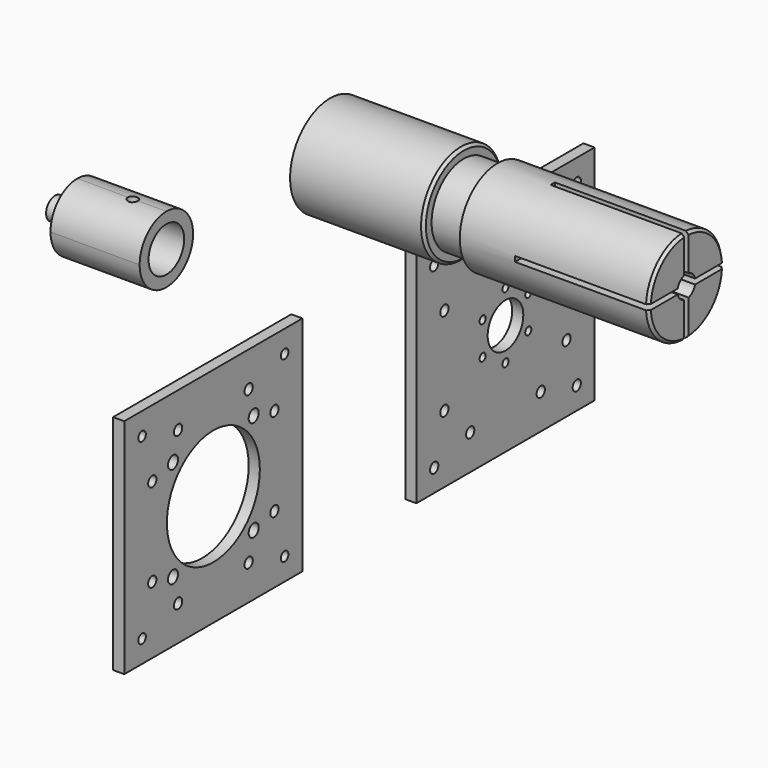
from build123d import *

# Parameters (mm, degrees)
F0_R      = 14.224
F1_DEPTH  = 38.1
F2_R      = 11.43
F3_DEPTH  = 9.652
F4_R      = 13.4493
F4_R_2    = 11.43
F5_DEPTH  = 53.848
F6_R      = 3.175
F7_DEPTH  = 19.05
F9_DEPTH  = 38.1
F10_SIZE  = 0.762
F12_DEPTH = 25.4
F13_R     = 1.4224
F14_DEPTH = 9.525
F15_DEPTH = 25.4
F16_R     = 6.35
F17_DEPTH = 22.225
F18_R     = 3.175
F19_DEPTH = 6.35
F20_W     = 63.5
F20_H     = 63.5
F20_R     = 1.3462
F20_R_2   = 1.4732
F20_R_3   = 1.7907
F20_R_4   = 16.5608
F21_DEPTH = 3.175
F22_W     = 63.5
F22_H     = 63.5
F22_R     = 1.4732
F22_R_2   = 1.0922
F22_R_3   = 6.35
F23_DEPTH = 3.175


with BuildPart() as f1:
    # F0 (on Right) → F1 (new body)
    with BuildSketch(Plane.YZ):
        Circle(F0_R)
    extrude(amount=F1_DEPTH)

    # F2 (on face) → F3 (join)
    with BuildSketch(Plane.YZ.offset(38.1)):
        Circle(F2_R)
    extrude(amount=F3_DEPTH)

    # F4 (on face) → F5 (join)
    with BuildSketch(Plane.YZ.offset(47.752)):
        Circle(F4_R)
        Circle(F4_R_2, mode=Mode.SUBTRACT)
        Circle(F4_R_2)
    extrude(amount=F5_DEPTH)

    # F6 (on face) → F7 (cut)
    with BuildSketch(Plane.YZ.offset(101.6)):
        Circle(F6_R)
    extrude(amount=-F7_DEPTH, mode=Mode.SUBTRACT)

    # F8 (on face) → F9 (cut)
    with BuildSketch(Plane.YZ.offset(101.6)):
        with BuildLine():
            ThreePointArc((-0.7705037715, 3.080089112), (0, 3.175), (0.7705037715, 3.080089112))
            Line((0.7705037715, 3.080089112), (0.7705037715, 13.4272109698))
            ThreePointArc((0.7705037715, 13.4272109698), (0, 13.4493), (-0.7705037715, 13.4272109698))
            Line((-0.7705037715, 13.4272109698), (-0.7705037715, 3.080089112))
        make_face()
        with BuildLine():
            Line((13.4282984503, 0.7513129967), (3.0848263778, 0.7513129967))
            ThreePointArc((3.0848263778, 0.7513129967), (3.1523759888, 0.3783525146), (3.175, 0))
            ThreePointArc((3.175, 0), (3.1523759888, -0.3783525146), (3.0848263778, -0.7513129967))
            Line((3.0848263778, -0.7513129967), (13.4282984503, -0.7513129967))
            ThreePointArc((13.4282984503, -0.7513129967), (13.4440485873, -0.3758032345), (13.4493, 0))
            ThreePointArc((13.4493, 0), (13.4440485873, 0.3758032345), (13.4282984503, 0.7513129967))
        make_face()
        with BuildLine():
            ThreePointArc((-3.0848263778, -0.7513129967), (-3.175, 0), (-3.0848263778, 0.7513129967))
            Line((-3.0848263778, 0.7513129967), (-13.4282984503, 0.7513129967))
            ThreePointArc((-13.4282984503, 0.7513129967), (-13.4493, 0), (-13.4282984503, -0.7513129967))
            Line((-13.4282984503, -0.7513129967), (-3.0848263778, -0.7513129967))
        make_face()
        with BuildLine():
            Line((0.7705037715, -13.4272109698), (0.7705037715, -3.080089112))
            ThreePointArc((0.7705037715, -3.080089112), (0, -3.175), (-0.7705037715, -3.080089112))
            Line((-0.7705037715, -3.080089112), (-0.7705037715, -13.4272109698))
            ThreePointArc((-0.7705037715, -13.4272109698), (0, -13.4493), (0.7705037715, -13.4272109698))
        make_face()
    extrude(amount=-F9_DEPTH, mode=Mode.SUBTRACT)

    # F10
    f10_edges = [f1.edges().sort_by_distance(p)[0] for p in [
        (101.6, -9.516885, 9.503293),
        (101.6, 9.516885, 9.503293),
        (101.6, 9.516885, -9.503293),
        (101.6, -9.516885, -9.503293),
        (38.1, -14.224, 0),
    ]]
    chamfer(f10_edges, length=F10_SIZE)


with BuildPart() as f12:
    # F11 (on Right) → F12 (new body)
    with BuildSketch(Plane.YZ):
        with BuildLine():
            Line((-48.7993966103, 0), (-48.7993966103, 9.525))
            Line((-48.7993966103, 9.525), (-58.3243966103, 9.525))
            ThreePointArc((-58.3243966103, 9.525), (-51.5892045195, 6.7351920908), (-48.7993966103, 0))
        make_face()
        with BuildLine():
            ThreePointArc((-48.7993966103, 0), (-51.5892045195, 6.7351920908), (-58.3243966103, 9.525))
            ThreePointArc((-58.3243966103, 9.525), (-65.0595887011, 6.7351920908), (-67.8493966103, 0))
            ThreePointArc((-67.8493966103, 0), (-65.0595887011, -6.7351920908), (-58.3243966103, -9.525))
            ThreePointArc((-58.3243966103, -9.525), (-51.5892045195, -6.7351920908), (-48.7993966103, 0))
        make_face()
        with BuildLine():
            Line((-48.7993966103, -9.525), (-48.7993966103, 0))
            ThreePointArc((-48.7993966103, 0), (-51.5892045195, -6.7351920908), (-58.3243966103, -9.525))
            Line((-58.3243966103, -9.525), (-48.7993966103, -9.525))
        make_face()
        with BuildLine():
            ThreePointArc((-67.8493966103, 0), (-65.0595887011, 6.7351920908), (-58.3243966103, 9.525))
            Line((-58.3243966103, 9.525), (-67.8493966103, 9.525))
            Line((-67.8493966103, 9.525), (-67.8493966103, 0))
        make_face()
        with BuildLine():
            ThreePointArc((-58.3243966103, -9.525), (-65.0595887011, -6.7351920908), (-67.8493966103, 0))
            Line((-67.8493966103, 0), (-67.8493966103, -9.525))
            Line((-67.8493966103, -9.525), (-58.3243966103, -9.525))
        make_face()
    extrude(amount=-F12_DEPTH)

    # F13 (on face) → F14 (cut)
    with BuildSketch(Plane.XY.offset(9.525)):
        with Locations((-9.525, -58.3243966103)):
            Circle(F13_R)
    extrude(amount=-F14_DEPTH, mode=Mode.SUBTRACT)

    # F11 (on Right) → F15 (cut)
    with BuildSketch(Plane.YZ):
        with BuildLine():
            ThreePointArc((-67.8493966103, 0), (-65.0595887011, 6.7351920908), (-58.3243966103, 9.525))
            Line((-58.3243966103, 9.525), (-67.8493966103, 9.525))
            Line((-67.8493966103, 9.525), (-67.8493966103, 0))
        make_face()
        with BuildLine():
            Line((-48.7993966103, 0), (-48.7993966103, 9.525))
            Line((-48.7993966103, 9.525), (-58.3243966103, 9.525))
            ThreePointArc((-58.3243966103, 9.525), (-51.5892045195, 6.7351920908), (-48.7993966103, 0))
        make_face()
        with BuildLine():
            Line((-48.7993966103, -9.525), (-48.7993966103, 0))
            ThreePointArc((-48.7993966103, 0), (-51.5892045195, -6.7351920908), (-58.3243966103, -9.525))
            Line((-58.3243966103, -9.525), (-48.7993966103, -9.525))
        make_face()
        with BuildLine():
            ThreePointArc((-58.3243966103, -9.525), (-65.0595887011, -6.7351920908), (-67.8493966103, 0))
            Line((-67.8493966103, 0), (-67.8493966103, -9.525))
            Line((-67.8493966103, -9.525), (-58.3243966103, -9.525))
        make_face()
    extrude(amount=-F15_DEPTH, mode=Mode.SUBTRACT)

    # F16 (on face) → F17 (cut)
    with BuildSketch(Plane.YZ):
        with Locations((-58.3243966103, 0)):
            Circle(F16_R)
    extrude(amount=-F17_DEPTH, mode=Mode.SUBTRACT)

    # F18 (on face) → F19 (join)
    with BuildSketch(Plane(origin=(-25.4, 0, 0), x_dir=(0, -1, 0), z_dir=(-1, 0, 0))):
        with Locations((58.3243966103, 0)):
            Circle(F18_R)
    extrude(amount=F19_DEPTH)


with BuildPart() as f21:
    # F20 (on Right) → F21 (new body)
    with BuildSketch(Plane.YZ):
        with Locations((-45.5415797532, -66.1402354836)):
            Rectangle(F20_W, F20_H)
        with Locations((-70.9415797532, -91.5402354836)):
            Circle(F20_R, mode=Mode.SUBTRACT)
        with Locations((-58.1145797532, -87.9080354836)):
            Circle(F20_R_2, mode=Mode.SUBTRACT)
        with Locations((-67.3093797532, -78.7132354836)):
            Circle(F20_R_2, mode=Mode.SUBTRACT)
        with Locations((-59.9179797532, -80.5166354836)):
            Circle(F20_R_3, mode=Mode.SUBTRACT)
        with Locations((-32.9685797532, -87.9080354836)):
            Circle(F20_R_2, mode=Mode.SUBTRACT)
        with Locations((-20.1415797532, -91.5402354836)):
            Circle(F20_R, mode=Mode.SUBTRACT)
        with Locations((-31.1651797532, -80.5166354836)):
            Circle(F20_R_3, mode=Mode.SUBTRACT)
        with Locations((-23.7737797532, -78.7132354836)):
            Circle(F20_R_2, mode=Mode.SUBTRACT)
        with Locations((-67.3093797532, -53.5672354836)):
            Circle(F20_R_2, mode=Mode.SUBTRACT)
        with Locations((-59.9179797532, -51.7638354836)):
            Circle(F20_R_3, mode=Mode.SUBTRACT)
        with Locations((-70.9415797532, -40.7402354836)):
            Circle(F20_R, mode=Mode.SUBTRACT)
        with Locations((-58.1145797532, -44.3724354836)):
            Circle(F20_R_2, mode=Mode.SUBTRACT)
        with Locations((-45.5415797532, -66.1402354836)):
            Circle(F20_R_4, mode=Mode.SUBTRACT)
        with Locations((-31.1651797532, -51.7638354836)):
            Circle(F20_R_3, mode=Mode.SUBTRACT)
        with Locations((-23.7737797532, -53.5672354836)):
            Circle(F20_R_2, mode=Mode.SUBTRACT)
        with Locations((-32.9685797532, -44.3724354836)):
            Circle(F20_R_2, mode=Mode.SUBTRACT)
        with Locations((-20.1415797532, -40.7402354836)):
            Circle(F20_R, mode=Mode.SUBTRACT)
    extrude(amount=F21_DEPTH)


with BuildPart() as f23:
    # F22 (on Right) → F23 (new body)
    with BuildSketch(Plane.YZ):
        with Locations((58.5630993247, -65.5591945052)):
            Rectangle(F22_W, F22_H)
        with Locations((33.1630993247, -90.9591945052)):
            Circle(F22_R, mode=Mode.SUBTRACT)
        with Locations((45.9900993247, -87.3269945052)):
            Circle(F22_R, mode=Mode.SUBTRACT)
        with Locations((36.7952993247, -78.1321945052)):
            Circle(F22_R, mode=Mode.SUBTRACT)
        with Locations((50.4350993247, -70.2581945052)):
            Circle(F22_R_2, mode=Mode.SUBTRACT)
        with Locations((71.1360993247, -87.3269945052)):
            Circle(F22_R, mode=Mode.SUBTRACT)
        with Locations((83.9630993247, -90.9591945052)):
            Circle(F22_R, mode=Mode.SUBTRACT)
        with Locations((58.5630993247, -74.9571945052)):
            Circle(F22_R_2, mode=Mode.SUBTRACT)
        with Locations((66.6910993247, -70.2581945052)):
            Circle(F22_R_2, mode=Mode.SUBTRACT)
        with Locations((80.3308993247, -78.1321945052)):
            Circle(F22_R, mode=Mode.SUBTRACT)
        with Locations((36.7952993247, -52.9861945052)):
            Circle(F22_R, mode=Mode.SUBTRACT)
        with Locations((50.4350993247, -60.8601945052)):
            Circle(F22_R_2, mode=Mode.SUBTRACT)
        with Locations((33.1630993247, -40.1591945052)):
            Circle(F22_R, mode=Mode.SUBTRACT)
        with Locations((45.9900993247, -43.7913945052)):
            Circle(F22_R, mode=Mode.SUBTRACT)
        with Locations((58.5630993247, -65.5591945052)):
            Circle(F22_R_3, mode=Mode.SUBTRACT)
        with Locations((66.6910993247, -60.8601945052)):
            Circle(F22_R_2, mode=Mode.SUBTRACT)
        with Locations((58.5630993247, -56.1611945052)):
            Circle(F22_R_2, mode=Mode.SUBTRACT)
        with Locations((80.3308993247, -52.9861945052)):
            Circle(F22_R, mode=Mode.SUBTRACT)
        with Locations((71.1360993247, -43.7913945052)):
            Circle(F22_R, mode=Mode.SUBTRACT)
        with Locations((83.9630993247, -40.1591945052)):
            Circle(F22_R, mode=Mode.SUBTRACT)
    extrude(amount=F23_DEPTH)


solid = Compound([f1.part, f12.part, f21.part, f23.part])
